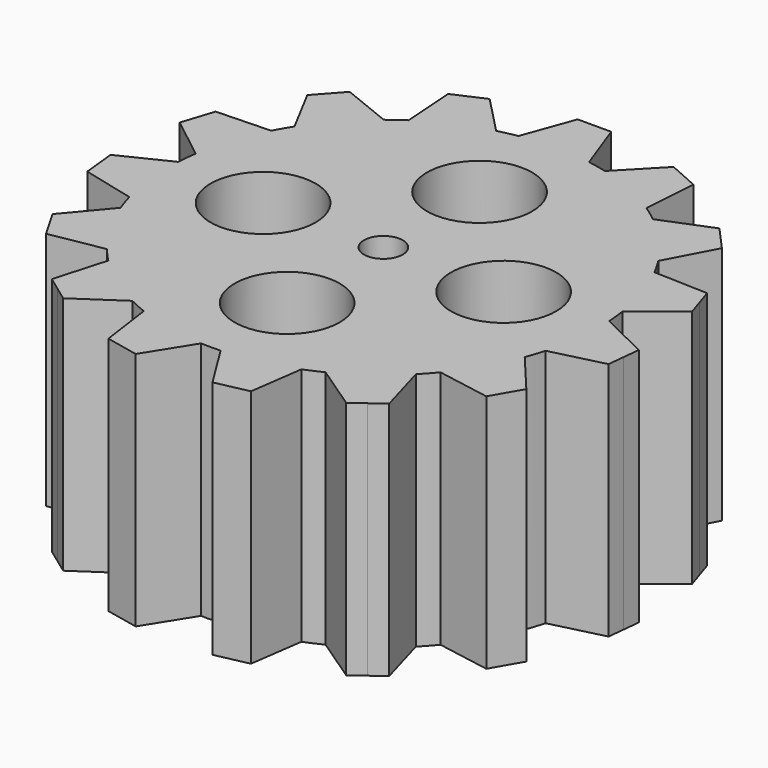
from build123d import *

# Parameters (mm, degrees)
F0_R     = 4.05
F1_DEPTH = 50
F2_R     = 10.963605
F2_R_2   = 4.05
F3_DEPTH = 100


with BuildPart() as f1:
    # F0 (on Top) → F1 (new body)
    with BuildSketch(Plane.XY):
        with BuildLine():
            Line((14.85866, -53.070427), (16.429462, -41.893589))
            ThreePointArc((16.429462, -41.893589), (9.356026, -44.016642), (2.030598, -44.954162))
            Line((2.030598, -44.954162), (8.011626, -54.525809))
            Line((8.011626, -54.525809), (11.435143, -53.798118))
            Line((11.435143, -53.798118), (14.85866, -53.070427))
        make_face()
        with BuildLine():
            Line((-8.011626, -54.525809), (-2.030598, -44.954162))
            ThreePointArc((-2.030598, -44.954162), (-9.356026, -44.016642), (-16.429462, -41.893589))
            Line((-16.429462, -41.893589), (-14.85866, -53.070427))
            Line((-14.85866, -53.070427), (-11.435143, -53.798118))
            Line((-11.435143, -53.798118), (-8.011626, -54.525809))
        make_face()
        with BuildLine():
            Line((-29.496629, -46.553183), (-20.139548, -40.241752))
            ThreePointArc((-20.139548, -40.241752), (-26.450336, -36.405765), (-32.048718, -31.589234))
            Line((-32.048718, -31.589234), (-35.159748, -42.438686))
            Line((-35.159748, -42.438686), (-32.328189, -44.495935))
            Line((-32.328189, -44.495935), (-29.496629, -46.553183))
        make_face()
        with BuildLine():
            Line((-45.881397, -30.531089), (-34.766188, -28.571178))
            ThreePointArc((-34.766188, -28.571178), (-38.971143, -22.5), (-42.126459, -15.822813))
            Line((-42.126459, -15.822813), (-49.381397, -24.468911))
            Line((-49.381397, -24.468911), (-47.631397, -27.5))
            Line((-47.631397, -27.5), (-45.881397, -30.531089))
        make_face()
        with BuildLine():
            Line((-54.332855, -9.229892), (-43.381438, -11.960387))
            ThreePointArc((-43.381438, -11.960387), (-44.753485, -4.703781), (-44.920154, 2.679516))
            Line((-44.920154, 2.679516), (-55.064554, -2.268239))
            Line((-55.064554, -2.268239), (-54.698704, -5.749065))
            Line((-54.698704, -5.749065), (-54.332855, -9.229892))
        make_face()
        with BuildLine():
            ThreePointArc((-37.916147, 24.23563), (-33.441517, 30.110877), (-28.066181, 35.175126))
            Line((-28.066181, 35.175126), (-38.531008, 39.40319))
            Line((-38.531008, 39.40319), (-40.872965, 36.802183))
            Line((-40.872965, 36.802183), (-43.214923, 34.201176))
            Line((-43.214923, 34.201176), (-37.916147, 24.23563))
        make_face()
        with BuildLine():
            ThreePointArc((-44.495643, 6.718463), (-42.797543, 13.905765), (-39.946745, 20.718532))
            Line((-39.946745, 20.718532), (-51.226549, 20.324632))
            Line((-51.226549, 20.324632), (-52.308108, 16.995935))
            Line((-52.308108, 16.995935), (-53.389668, 13.667237))
            Line((-53.389668, 13.667237), (-44.495643, 6.718463))
        make_face()
        with BuildLine():
            ThreePointArc((-24.780606, 37.562236), (-18.303149, 41.109546), (-11.33272, 43.549621))
            Line((-11.33272, 43.549621), (-19.173106, 51.668578))
            Line((-19.173106, 51.668578), (-22.370515, 50.245))
            Line((-22.370515, 50.245), (-25.567924, 48.821422))
            Line((-25.567924, 48.821422), (-24.780606, 37.562236))
        make_face()
        with BuildLine():
            ThreePointArc((-7.360272, 44.393991), (0, 45), (7.360272, 44.393991))
            Line((7.360272, 44.393991), (3.5, 55))
            Line((3.5, 55), (0, 55))
            Line((0, 55), (-3.5, 55))
            Line((-3.5, 55), (-7.360272, 44.393991))
        make_face()
        with BuildLine():
            ThreePointArc((11.33272, 43.549621), (18.303149, 41.109546), (24.780606, 37.562236))
            Line((24.780606, 37.562236), (25.567924, 48.821422))
            Line((25.567924, 48.821422), (22.370515, 50.245))
            Line((22.370515, 50.245), (19.173106, 51.668578))
            Line((19.173106, 51.668578), (11.33272, 43.549621))
        make_face()
        with BuildLine():
            ThreePointArc((28.066181, 35.175126), (33.441517, 30.110877), (37.916147, 24.23563))
            Line((37.916147, 24.23563), (43.214923, 34.201176))
            Line((43.214923, 34.201176), (40.872965, 36.802183))
            Line((40.872965, 36.802183), (38.531008, 39.40319))
            Line((38.531008, 39.40319), (28.066181, 35.175126))
        make_face()
        with BuildLine():
            ThreePointArc((39.946745, 20.718532), (42.797543, 13.905765), (44.495643, 6.718463))
            Line((44.495643, 6.718463), (53.389668, 13.667237))
            Line((53.389668, 13.667237), (52.308108, 16.995935))
            Line((52.308108, 16.995935), (51.226549, 20.324632))
            Line((51.226549, 20.324632), (39.946745, 20.718532))
        make_face()
        with BuildLine():
            Line((49.381397, -24.468911), (42.126459, -15.822813))
            ThreePointArc((42.126459, -15.822813), (38.971143, -22.5), (34.766188, -28.571178))
            Line((34.766188, -28.571178), (45.881397, -30.531089))
            Line((45.881397, -30.531089), (47.631397, -27.5))
            Line((47.631397, -27.5), (49.381397, -24.468911))
        make_face()
        with BuildLine():
            ThreePointArc((43.381438, -11.960387), (44.593524, -6.034704), (45, 0))
            ThreePointArc((45, 0), (44.980034, 1.340353), (44.920154, 2.679516))
            ThreePointArc((44.920154, 2.679516), (44.753485, 4.703781), (44.495643, 6.718463))
            ThreePointArc((44.495643, 6.718463), (42.797543, 13.905765), (39.946745, 20.718532))
            ThreePointArc((39.946745, 20.718532), (38.971143, 22.5), (37.916147, 24.23563))
            ThreePointArc((37.916147, 24.23563), (33.441517, 30.110877), (28.066181, 35.175126))
            ThreePointArc((28.066181, 35.175126), (26.450336, 36.405765), (24.780606, 37.562236))
            ThreePointArc((24.780606, 37.562236), (18.303149, 41.109546), (11.33272, 43.549621))
            ThreePointArc((11.33272, 43.549621), (9.356026, 44.016642), (7.360272, 44.393991))
            ThreePointArc((7.360272, 44.393991), (0, 45), (-7.360272, 44.393991))
            ThreePointArc((-7.360272, 44.393991), (-9.356026, 44.016642), (-11.33272, 43.549621))
            ThreePointArc((-11.33272, 43.549621), (-18.303149, 41.109546), (-24.780606, 37.562236))
            ThreePointArc((-24.780606, 37.562236), (-26.450336, 36.405765), (-28.066181, 35.175126))
            ThreePointArc((-28.066181, 35.175126), (-33.441517, 30.110877), (-37.916147, 24.23563))
            ThreePointArc((-37.916147, 24.23563), (-38.971143, 22.5), (-39.946745, 20.718532))
            ThreePointArc((-39.946745, 20.718532), (-42.797543, 13.905765), (-44.495643, 6.718463))
            ThreePointArc((-44.495643, 6.718463), (-44.753485, 4.703781), (-44.920154, 2.679516))
            ThreePointArc((-44.920154, 2.679516), (-44.753485, -4.703781), (-43.381438, -11.960387))
            ThreePointArc((-43.381438, -11.960387), (-42.797543, -13.905765), (-42.126459, -15.822813))
            ThreePointArc((-42.126459, -15.822813), (-38.971143, -22.5), (-34.766188, -28.571178))
            ThreePointArc((-34.766188, -28.571178), (-33.441517, -30.110877), (-32.048718, -31.589234))
            ThreePointArc((-32.048718, -31.589234), (-26.450336, -36.405765), (-20.139548, -40.241752))
            ThreePointArc((-20.139548, -40.241752), (-18.303149, -41.109546), (-16.429462, -41.893589))
            ThreePointArc((-16.429462, -41.893589), (-9.356026, -44.016642), (-2.030598, -44.954162))
            ThreePointArc((-2.030598, -44.954162), (0, -45), (2.030598, -44.954162))
            ThreePointArc((2.030598, -44.954162), (9.356026, -44.016642), (16.429462, -41.893589))
            ThreePointArc((16.429462, -41.893589), (18.303149, -41.109546), (20.139548, -40.241752))
            ThreePointArc((20.139548, -40.241752), (26.450336, -36.405765), (32.048718, -31.589234))
            ThreePointArc((32.048718, -31.589234), (33.441517, -30.110877), (34.766188, -28.571178))
            ThreePointArc((34.766188, -28.571178), (38.971143, -22.5), (42.126459, -15.822813))
            ThreePointArc((42.126459, -15.822813), (42.797543, -13.905765), (43.381438, -11.960387))
        make_face()
        Circle(F0_R, mode=Mode.SUBTRACT)
        with BuildLine():
            Line((35.159748, -42.438686), (32.048718, -31.589234))
            ThreePointArc((32.048718, -31.589234), (26.450336, -36.405765), (20.139548, -40.241752))
            Line((20.139548, -40.241752), (29.496629, -46.553183))
            Line((29.496629, -46.553183), (32.328189, -44.495935))
            Line((32.328189, -44.495935), (35.159748, -42.438686))
        make_face()
        with BuildLine():
            ThreePointArc((44.920154, 2.679516), (44.980034, 1.340353), (45, 0))
            ThreePointArc((45, 0), (44.593524, -6.034704), (43.381438, -11.960387))
            Line((43.381438, -11.960387), (54.332855, -9.229892))
            Line((54.332855, -9.229892), (54.698704, -5.749065))
            Line((54.698704, -5.749065), (55.064554, -2.268239))
            Line((55.064554, -2.268239), (44.920154, 2.679516))
        make_face()
        Circle(F0_R)
    extrude(amount=F1_DEPTH)

    # F2 (on face) → F3 (cut)
    with BuildSketch(Plane.XY.offset(50)):
        with Locations((0, 25.067315)):
            Circle(F2_R)
        with Locations((-25.067315, 0)):
            Circle(F2_R)
        with Locations((25.067315, 0)):
            Circle(F2_R)
        Circle(F2_R_2)
        with Locations((0, -25.067315)):
            Circle(F2_R)
    extrude(amount=-F3_DEPTH, mode=Mode.SUBTRACT)


solid = f1.part
